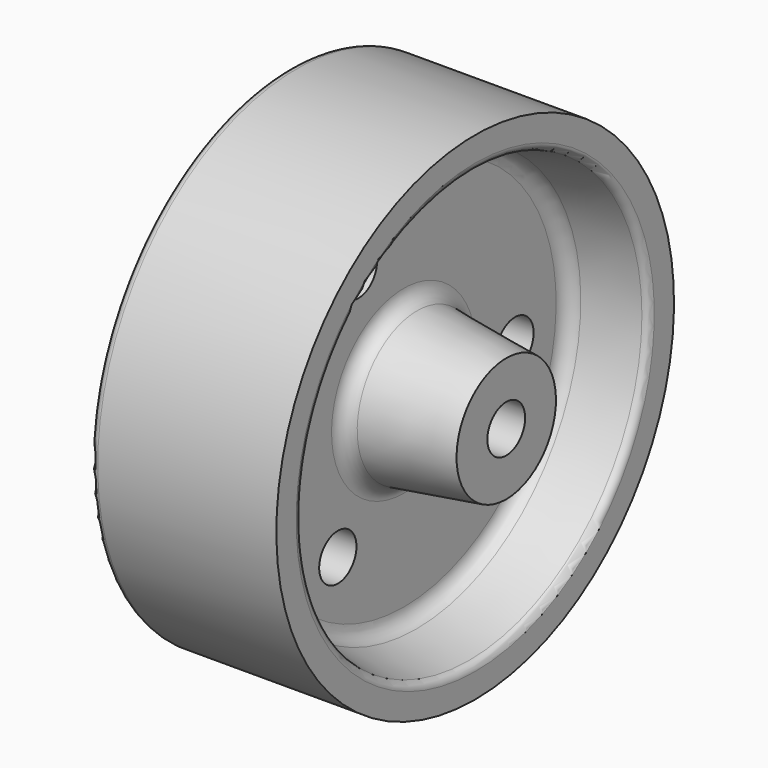
from build123d import *

# Parameters (mm, degrees)
F2_R     = 4.7625
F3_DEPTH = 127
F4_DEPTH = 127


with BuildPart() as f1:
    # F0 (on Front) → F1 (revolve)
    with BuildSketch(Plane.XZ):
        with BuildLine():
            Line((-18.1265414417, 27.6126198854), (-43.5265414417, 27.6126198854))
            Line((-43.5265414417, 27.6126198854), (-43.5265414417, 19.7386198854))
            Line((-43.5265414417, 19.7386198854), (-25.3036942711, 17.1353560039))
            ThreePointArc((-25.3036942711, 17.1353560039), (-23.35414077, 16.0725318904), (-22.5777070771, 13.9922663615))
            Line((-22.5777070771, 13.9922663615), (-22.5777070771, -6.4887358505))
            ThreePointArc((-22.5777070771, -6.4887358505), (-23.2973457784, -8.5016506258), (-25.1300383481, -9.6020794959))
            Line((-25.1300383481, -9.6020794959), (-35.9003758062, -11.7561469875))
            ThreePointArc((-35.9003758062, -11.7561469875), (-36.8167220911, -12.3063614225), (-37.1765414417, -13.3128188101))
            Line((-37.1765414417, -13.3128188101), (-37.1765414417, -16.7738801146))
            ThreePointArc((-37.1765414417, -16.7738801146), (-36.7115734568, -17.8964121297), (-35.5890414417, -18.3613801146))
            Line((-35.5890414417, -18.3613801146), (-18.1265414417, -18.3613801146))
            Line((-18.1265414417, -18.3613801146), (-18.1265414417, 27.6126198854))
        make_face()
        with BuildLine():
            Line((7.2734585583, 27.6126198854), (-18.1265414417, 27.6126198854))
            Line((-18.1265414417, 27.6126198854), (-18.1265414417, -18.3613801146))
            Line((-18.1265414417, -18.3613801146), (-0.6640414417, -18.3613801146))
            ThreePointArc((-0.6640414417, -18.3613801146), (0.4584905735, -17.8964121297), (0.9234585583, -16.7738801146))
            Line((0.9234585583, -16.7738801146), (0.9234585583, -13.3128188101))
            ThreePointArc((0.9234585583, -13.3128188101), (0.5636392077, -12.3063614225), (-0.3527070771, -11.7561469875))
            Line((-0.3527070771, -11.7561469875), (-11.1230445353, -9.6020794959))
            ThreePointArc((-11.1230445353, -9.6020794959), (-12.955737105, -8.5016506258), (-13.6753758062, -6.4887358505))
            Line((-13.6753758062, -6.4887358505), (-13.6753758062, 13.9922663615))
            ThreePointArc((-13.6753758062, 13.9922663615), (-12.8989421133, 16.0725318904), (-10.9493886123, 17.1353560039))
            Line((-10.9493886123, 17.1353560039), (7.2734585583, 19.7386198854))
            Line((7.2734585583, 19.7386198854), (7.2734585583, 27.6126198854))
        make_face()
        with BuildLine():
            ThreePointArc((0.9234585583, -16.7738801146), (0.4584905735, -17.8964121297), (-0.6640414417, -18.3613801146))
            Line((-0.6640414417, -18.3613801146), (0.9234585583, -18.3613801146))
            Line((0.9234585583, -18.3613801146), (0.9234585583, -16.7738801146))
        make_face()
    revolve(axis=Axis((-18.0359715596, 0, 32.4386198854), (-1, 0, 0)))

    # F2 (on face) → F3 (cut)
    with BuildSketch(Plane.YZ.offset(7.2734585583)):
        with Locations((-11.5669657036, 58.5678358976)):
            Circle(F2_R)
    extrude(amount=-F3_DEPTH, mode=Mode.SUBTRACT)

    # F2 (on face) → F4 (cut)
    with BuildSketch(Plane.YZ.offset(7.2734585583)):
        with Locations((28.4120476993, 29.3912980234)):
            Circle(F2_R)
        with Locations((-16.8450819957, 9.3567257353)):
            Circle(F2_R)
    extrude(amount=-F4_DEPTH, mode=Mode.SUBTRACT)


solid = f1.part
